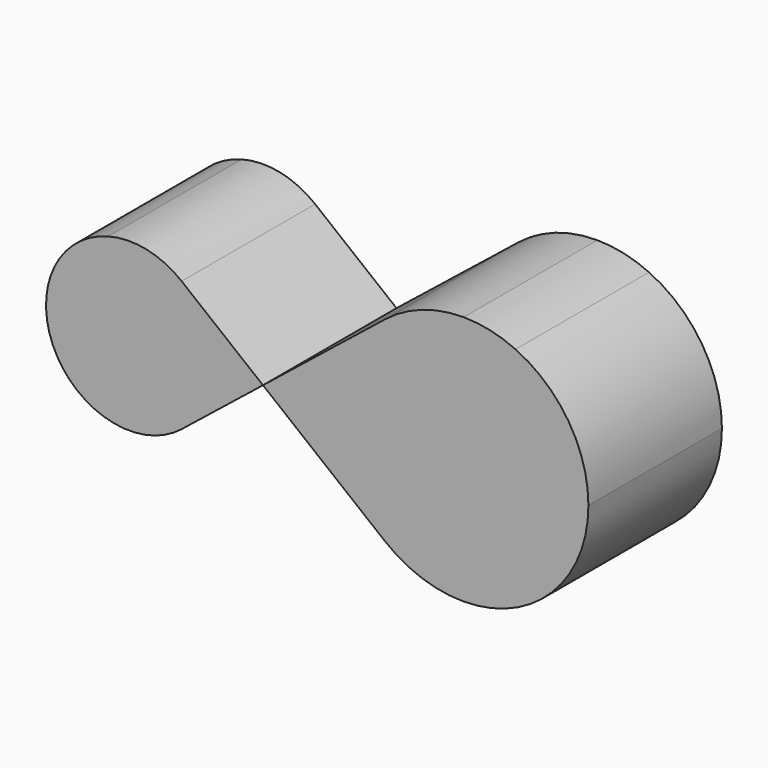
from build123d import *

# Parameters (mm, degrees)
F1_DEPTH = 25.4


with BuildPart() as f1:
    # F0 (on Front) → F1 (new body)
    with BuildSketch(Plane.XZ):
        with BuildLine():
            ThreePointArc((25.083303, 42.835131), (18.732602, 41.77316), (13.098447, 38.656195))
            Line((13.098447, 38.656195), (25.004697, 23.785293))
            Line((25.004697, 23.785293), (13.098447, 8.914392))
            ThreePointArc((13.098447, 8.914392), (33.253589, 6.613855), (44.054697, 23.785293))
            ThreePointArc((44.054697, 23.785293), (41.04284, 34.065394), (32.959635, 41.09487))
            ThreePointArc((32.959635, 41.09487), (29.114634, 42.386662), (25.083303, 42.835131))
        make_face()
        with BuildLine():
            Line((5.954697, 23.785293), (-5.475303, 23.785293))
            Line((-5.475303, 23.785293), (13.098447, 8.914392))
            ThreePointArc((13.098447, 8.914392), (7.833259, 15.536401), (5.954697, 23.785293))
        make_face()
        with BuildLine():
            Line((25.004697, 23.785293), (13.098447, 38.656195))
            ThreePointArc((13.098447, 38.656195), (7.833259, 32.034185), (5.954697, 23.785293))
            Line((5.954697, 23.785293), (25.004697, 23.785293))
        make_face()
        with BuildLine():
            Line((25.004697, 23.785293), (5.954697, 23.785293))
            ThreePointArc((5.954697, 23.785293), (7.833259, 15.536401), (13.098447, 8.914392))
            Line((13.098447, 8.914392), (25.004697, 23.785293))
        make_face()
        with BuildLine():
            Line((13.098447, 38.656195), (-5.475303, 23.785293))
            Line((-5.475303, 23.785293), (5.954697, 23.785293))
            ThreePointArc((5.954697, 23.785293), (7.833259, 32.034185), (13.098447, 38.656195))
        make_face()
        with BuildLine():
            Line((-5.475303, 23.785293), (-13.095303, 23.785293))
            ThreePointArc((-13.095303, 23.785293), (-14.347678, 18.286032), (-17.857803, 13.871359))
            Line((-17.857803, 13.871359), (-5.475303, 23.785293))
        make_face()
        with BuildLine():
            Line((-25.795303, 23.785293), (-13.095303, 23.785293))
            ThreePointArc((-13.095303, 23.785293), (-14.347678, 29.284555), (-17.857803, 33.699228))
            Line((-17.857803, 33.699228), (-25.795303, 23.785293))
        make_face()
        with BuildLine():
            ThreePointArc((-17.857803, 33.699228), (-14.347678, 29.284555), (-13.095303, 23.785293))
            Line((-13.095303, 23.785293), (-5.475303, 23.785293))
            Line((-5.475303, 23.785293), (-17.857803, 33.699228))
        make_face()
        with BuildLine():
            Line((-25.795303, 23.785293), (-17.857803, 33.699228))
            ThreePointArc((-17.857803, 33.699228), (-23.169991, 36.210982), (-29.044194, 36.0627))
            ThreePointArc((-29.044194, 36.0627), (-32.563136, 34.531755), (-35.464134, 32.019595))
            ThreePointArc((-35.464134, 32.019595), (-34.91062, 14.94216), (-17.857803, 13.871359))
            Line((-17.857803, 13.871359), (-25.795303, 23.785293))
        make_face()
        with BuildLine():
            ThreePointArc((-17.857803, 13.871359), (-14.347678, 18.286032), (-13.095303, 23.785293))
            Line((-13.095303, 23.785293), (-25.795303, 23.785293))
            Line((-25.795303, 23.785293), (-17.857803, 13.871359))
        make_face()
    extrude(amount=F1_DEPTH)


solid = f1.part
